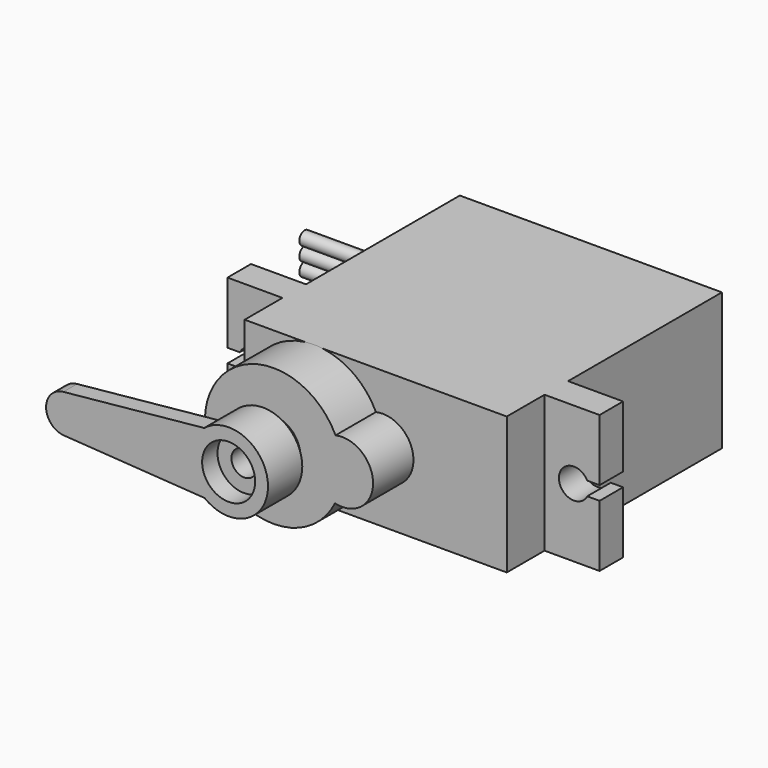
from build123d import *

# Parameters (mm, degrees)
SKETCH001_W     = 32.14
SKETCH001_H     = 11.86
PAD_DEPTH       = 27.59
SKETCH002_W     = 4.75
SKETCH002_H     = 11.86
POCKET_DEPTH    = 8.44
SKETCH_W        = 4.75
SKETCH_H        = 11.86
POCKET001_DEPTH = 16.61
SKETCH003_W     = 8.06
SKETCH003_H     = 11.86
POCKET002_DEPTH = 4.36
SKETCH004_R     = 1.295
POCKET003_DEPTH = 2.54
SKETCH005_R     = 1.295
POCKET004_DEPTH = 2.54
SKETCH007_W     = 1.066805
SKETCH007_H     = 1.19
POCKET005_DEPTH = 2.54
SKETCH008_W     = 1.5
SKETCH008_H     = 1.19
POCKET006_DEPTH = 2.54
SKETCH011_W     = 14.58
SKETCH011_H     = 11.86
POCKET007_DEPTH = 4.36
SKETCH012_R     = 5.93
PAD001_DEPTH    = 4.36
SKETCH013_R     = 2.66
PAD002_DEPTH    = 4.36
SKETCH014_R     = 2.38
PAD003_DEPTH    = 1.07
SKETCH015_R     = 3.39
PAD004_DEPTH    = 3.7
PAD005_DEPTH    = 1.48
SKETCH017_R     = 2.29
POCKET008_DEPTH = 1.66
SKETCH018_R     = 1.1
POCKET009_DEPTH = 1.66
SKETCH019_R     = 0.575
PAD006_DEPTH    = 10


with BuildPart() as part:
    # Sketch001 → Pad (new body)
    with BuildSketch(Plane.XZ):
        with Locations((16.07, 5.93)):
            Rectangle(SKETCH001_W, SKETCH001_H)
    extrude(amount=PAD_DEPTH)

    # Sketch002 (on Face6 of Pad) → Pocket (cut)
    with BuildSketch(Plane.XZ.offset(27.59)):
        with Locations((2.375, 5.93)):
            Rectangle(SKETCH002_W, SKETCH002_H)
        with Locations((29.765, 5.93)):
            Rectangle(SKETCH002_W, SKETCH002_H)
    extrude(amount=-POCKET_DEPTH, mode=Mode.SUBTRACT)

    # Sketch (on Face2 of Pocket) → Pocket001 (cut)
    with BuildSketch(Plane(origin=(0, 0, 0), x_dir=(1, 0, 0), z_dir=(0, 1, 0))):
        with Locations((2.375, -5.93)):
            Rectangle(SKETCH_W, SKETCH_H)
        with Locations((29.765, -5.93)):
            Rectangle(SKETCH_W, SKETCH_H)
    extrude(amount=-POCKET001_DEPTH, mode=Mode.SUBTRACT)

    # Sketch003 (on Face8 of Pocket001) → Pocket002 (cut)
    with BuildSketch(Plane.XZ.offset(27.59)):
        with Locations((23.36, 5.93)):
            Rectangle(SKETCH003_W, SKETCH003_H)
    extrude(amount=-POCKET002_DEPTH, mode=Mode.SUBTRACT)

    # Sketch004 (on Face6 of Pocket002) → Pocket003 (cut)
    with BuildSketch(Plane.XZ.offset(19.15)):
        with Locations((29.925, 5.93)):
            Circle(SKETCH004_R)
    extrude(amount=-POCKET003_DEPTH, mode=Mode.SUBTRACT)

    # Sketch005 (on Face12 of Pocket003) → Pocket004 (cut)
    with BuildSketch(Plane.XZ.offset(19.15)):
        with Locations((2.215, 5.93)):
            Circle(SKETCH005_R)
    extrude(amount=-POCKET004_DEPTH, mode=Mode.SUBTRACT)

    # Sketch007 (on Face6 of Pocket004) → Pocket005 (cut)
    with BuildSketch(Plane.XZ.offset(19.15)):
        with Locations((31.6065975, 5.93)):
            Rectangle(SKETCH007_W, SKETCH007_H)
    extrude(amount=-POCKET005_DEPTH, mode=Mode.SUBTRACT)

    # Sketch008 (on Face12 of Pocket005) → Pocket006 (cut)
    with BuildSketch(Plane.XZ.offset(19.15)):
        with Locations((0.75, 5.93)):
            Rectangle(SKETCH008_W, SKETCH008_H)
    extrude(amount=-POCKET006_DEPTH, mode=Mode.SUBTRACT)

    # Sketch011 (on Face10 of Pocket006) → Pocket007 (cut)
    with BuildSketch(Plane.XZ.offset(27.59)):
        with Locations((12.04, 5.93)):
            Rectangle(SKETCH011_W, SKETCH011_H)
    extrude(amount=-POCKET007_DEPTH, mode=Mode.SUBTRACT)

    # Sketch012 (on Face9 of Pocket007) → Pad001 (join)
    with BuildSketch(Plane.XZ.offset(23.23)):
        with Locations((10.73, 5.98)):
            Circle(SKETCH012_R)
    extrude(amount=PAD001_DEPTH)

    # Sketch013 (on Face9 of Pad001) → Pad002 (join)
    with BuildSketch(Plane.XZ.offset(23.23)):
        with Locations((16.67, 5.93)):
            Circle(SKETCH013_R)
    extrude(amount=PAD002_DEPTH)

    # Sketch014 (on Face24 of Pad002) → Pad003 (join)
    with BuildSketch(Plane.XZ.offset(27.59)):
        with Locations((10.68, 5.93)):
            Circle(SKETCH014_R)
    extrude(amount=PAD003_DEPTH)

    # Sketch015 (on Face28 of Pad003) → Pad004 (join)
    with BuildSketch(Plane.XZ.offset(28.66)):
        with Locations((10.68, 5.93)):
            Circle(SKETCH015_R)
    extrude(amount=PAD004_DEPTH)

    # Sketch016 (on Face3 of Pad004) → Pad005 (join)
    with BuildSketch(Plane.XZ.offset(32.36)):
        with BuildLine():
            Line((8.62, 8.58), (8.62, 3.26))
            Line((-3.5526338926, 4.0654001014), (8.62, 3.26))
            ThreePointArc((-3.6067901761, 7.3671849678), (-5.0997771882, 5.691360238), (-3.5526338926, 4.0654001014))
            Line((8.62, 8.58), (-3.6067901761, 7.3671849678))
        make_face()
    extrude(amount=-PAD005_DEPTH)

    # Sketch017 (on Face34 of Pad005) → Pocket008 (cut)
    with BuildSketch(Plane.XZ.offset(32.36)):
        with Locations((10.668875, 5.93)):
            Circle(SKETCH017_R)
    extrude(amount=-POCKET008_DEPTH, mode=Mode.SUBTRACT)

    # Sketch018 (on Face11 of Pocket008) → Pocket009 (cut)
    with BuildSketch(Plane.XZ.offset(30.7)):
        with Locations((10.68, 5.93)):
            Circle(SKETCH018_R)
    extrude(amount=-POCKET009_DEPTH, mode=Mode.SUBTRACT)

    # Sketch019 (on Face23 of Pocket009) → Pad006 (join)
    with BuildSketch(Plane(origin=(4.75, 0, 0), x_dir=(0, 0, -1), z_dir=(-1, 0, 0))):
        with Locations((-5.93, 4.256319)):
            Circle(SKETCH019_R)
        with Locations((-7.12, 4.256319)):
            Circle(SKETCH019_R)
        with Locations((-4.745135, 4.256319)):
            Circle(SKETCH019_R)
    extrude(amount=PAD006_DEPTH)


solid = part.part
